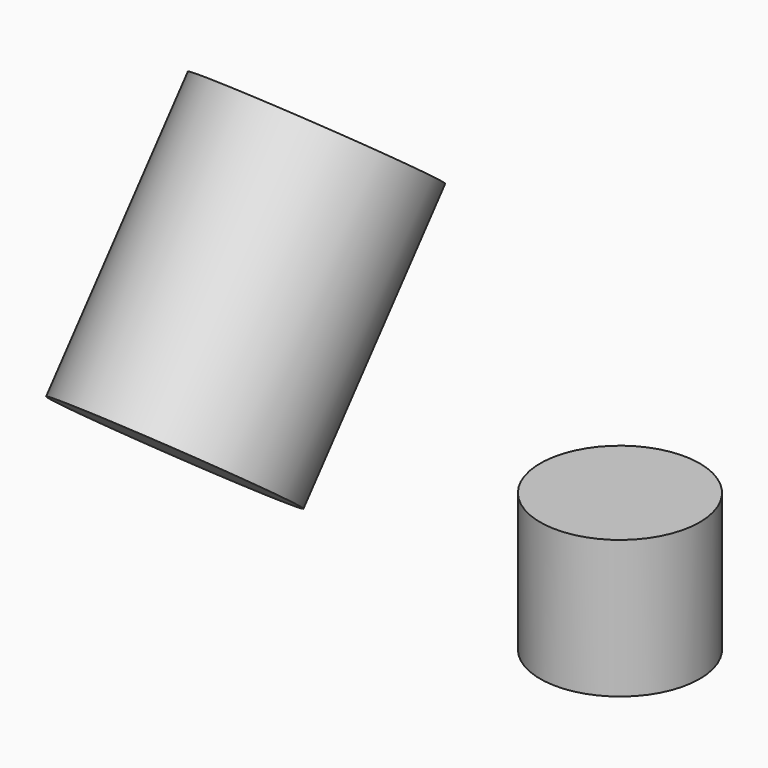
from build123d import *

# Parameters (mm, degrees)
F0_R     = 42.809201
F3_DEPTH = 108.109146
F4_ANGLE = 36.7653
F1_R     = 31.128864
F5_DEPTH = 53.829893


with BuildPart() as f3:
    # F0 (on Top) → F3 (new body)
    with BuildSketch(Plane.XY):
        with Locations((-54.171324, -42.866722)):
            Circle(F0_R)
    extrude(amount=F3_DEPTH)


with BuildPart() as f3_1:
    # F4: moved
    add(f3.part.rotate(Axis((43.891683, 55.967683, 0), (-0.998409, 0.056385, 0)), F4_ANGLE))


with BuildPart() as f5:
    # F1 (on Top) → F5 (new body)
    with BuildSketch(Plane.XY):
        with Locations((59.282102, 54.681085)):
            Circle(F1_R)
    extrude(amount=F5_DEPTH)


solid = Compound([f3_1.part, f5.part])
